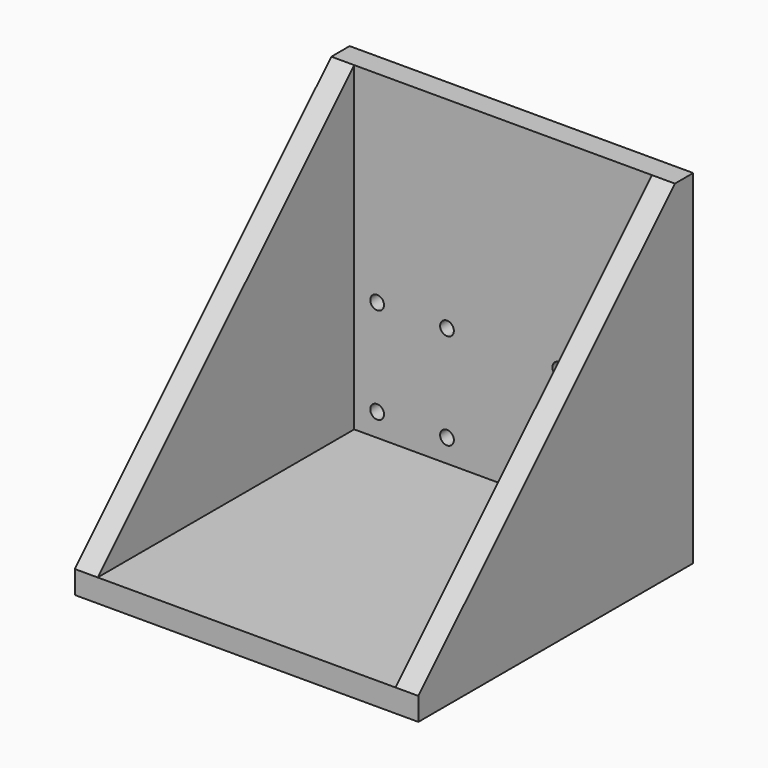
from build123d import *

# Parameters (mm, degrees)
F1_DEPTH = 75
F3_DEPTH = 5
F5_DEPTH = 5
F6_R     = 1.5
F7_DEPTH = 5


with BuildPart() as f1:
    # F0 (on Right) → F1 (new body)
    with BuildSketch(Plane.YZ):
        Polygon((70, 0), (0, 0), (0, -5), (75, -5), (75, 70), (70, 70), align=None)
    extrude(amount=F1_DEPTH)

    # F2 (on face) → F3 (join)
    with BuildSketch(Plane.YZ.offset(75)):
        Polygon((70, 0), (70, 70), (0, 0), align=None)
    extrude(amount=-F3_DEPTH)

    # F4 (on face) → F5 (join)
    with BuildSketch(Plane(origin=(0, 0, 0), x_dir=(0, -1, 0), z_dir=(-1, 0, 0))):
        Polygon((-70, 70), (-70, 0), (0, 0), align=None)
    extrude(amount=-F5_DEPTH)

    # F6 (on face) → F7 (cut, through all)
    with BuildSketch(Plane(origin=(0, 75, 0), x_dir=(-1, 0, 0), z_dir=(0, 1, 0))):
        with Locations((-65, 26)):
            Circle(F6_R)
        with Locations((-49.75, 26)):
            Circle(F6_R)
        with Locations((-49.75, 5)):
            Circle(F6_R)
        with Locations((-65, 5)):
            Circle(F6_R)
        with Locations((-10, 5)):
            Circle(F6_R)
        with Locations((-25.25, 5)):
            Circle(F6_R)
        with Locations((-25.25, 26)):
            Circle(F6_R)
        with Locations((-10, 26)):
            Circle(F6_R)
    extrude(amount=-F7_DEPTH, mode=Mode.SUBTRACT)


solid = f1.part
